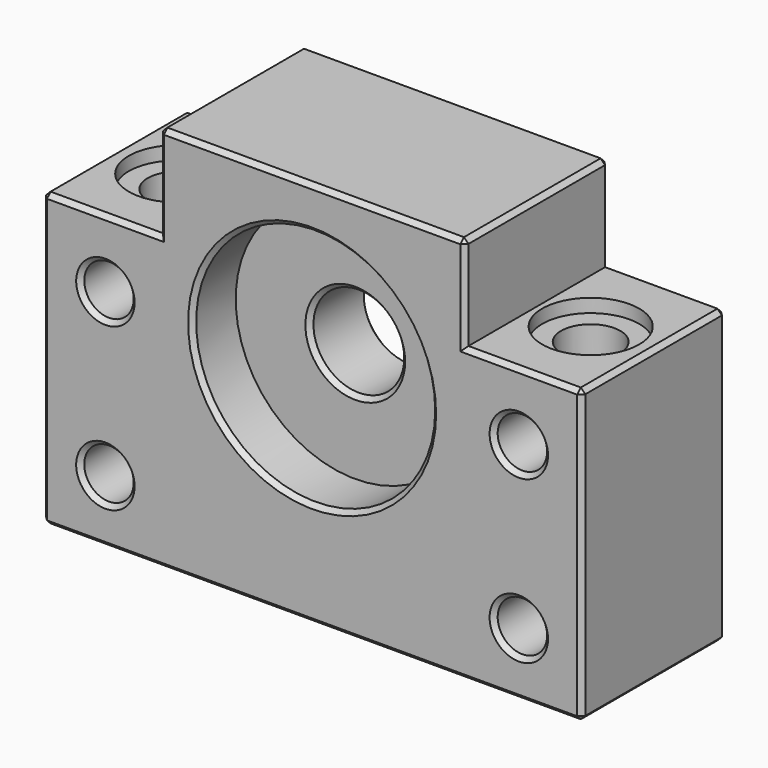
from build123d import *

# Parameters (mm, degrees)
F1_R      = 2.75
F2_DEPTH  = 20
F0_R      = 13.3
F3_DEPTH  = 20
F5_R      = 13.3
F5_R_2    = 5.05
F6_DEPTH  = 8
F7_R      = 3.3
F8_DEPTH  = 32.5
F9_R      = 5.4
F10_DEPTH = 1.5
F11_SIZE  = 0.5


with BuildPart() as f2:
    # F1 (on Front) → F2 (new body)
    with BuildSketch(Plane.XZ):
        Polygon((-17, 7.5), (-30, 7.5), (-30, -25), (30, -25), (30, 7.5), (17, 7.5), (17, 18), (-17, 18), align=None)
        with Locations((-23, -18)):
            Circle(F1_R, mode=Mode.SUBTRACT)
        with Locations((23, -18)):
            Circle(F1_R, mode=Mode.SUBTRACT)
        with Locations((-23, 0)):
            Circle(F1_R, mode=Mode.SUBTRACT)
        with Locations((23, 0)):
            Circle(F1_R, mode=Mode.SUBTRACT)
    extrude(amount=F2_DEPTH)

    # F0 (on Front) → F3 (cut, through all)
    with BuildSketch(Plane.XZ):
        Circle(F0_R)
    extrude(amount=F3_DEPTH, mode=Mode.SUBTRACT)

    # F5 (on offset) → F6 (join)
    with BuildSketch(Plane.XZ.offset(6)):
        Circle(F5_R)
        Circle(F5_R_2, mode=Mode.SUBTRACT)
    extrude(amount=F6_DEPTH)

    # F7 (on face) → F8 (cut, through all)
    with BuildSketch(Plane(origin=(0, 0, -25), x_dir=(1, 0, 0), z_dir=(0, 0, -1))):
        with Locations((-23, 10)):
            Circle(F7_R)
        with Locations((23, 10)):
            Circle(F7_R)
    extrude(amount=-F8_DEPTH, mode=Mode.SUBTRACT)

    # F9 (on face) → F10 (cut)
    with BuildSketch(Plane.XY.offset(7.5)):
        with Locations((-22.9999999999, -10)):
            Circle(F9_R)
        with Locations((23, -10)):
            Circle(F9_R)
    extrude(amount=-F10_DEPTH, mode=Mode.SUBTRACT)

    # F11
    f11_edges = [f2.edges().sort_by_distance(p)[0] for p in [
        (-17, -10, 18),
        (0, -20, 18),
        (17, -10, 18),
        (0, 0, 18),
        (-23.5, -20, 7.5),
        (-30, -10, 7.5),
        (-23.5, 0, 7.5),
        (23.5, -20, 7.5),
        (17, -20, 12.75),
        (-17, -20, 12.75),
        (-30, -20, -8.75),
        (0, -20, -25),
        (-25.75, -20, -18),
        (-25.75, -20, 0),
        (20.25, -20, 0),
        (20.25, -20, -18),
        (-13.3, -20, 0),
        (30, -20, -8.75),
        (30, -10, -25),
        (30, 0, -8.75),
        (30, -10, 7.5),
        (23.5, 0, 7.5),
        (17, 0, 12.75),
        (-5.05, -14, 0),
        (20.25, 0, 0),
        (20.25, 0, -18),
        (-25.75, 0, 0),
        (-13.3, 0, 0),
        (-30, -10, -25),
        (-30, 0, -8.75),
        (-17, 0, 12.75),
        (-25.75, 0, -18),
        (0, 0, -25),
        (-5.05, -6, 0),
        (-26.3, -10, -25),
        (19.7, -10, -25),
    ]]
    chamfer(f11_edges, length=F11_SIZE)


solid = f2.part
